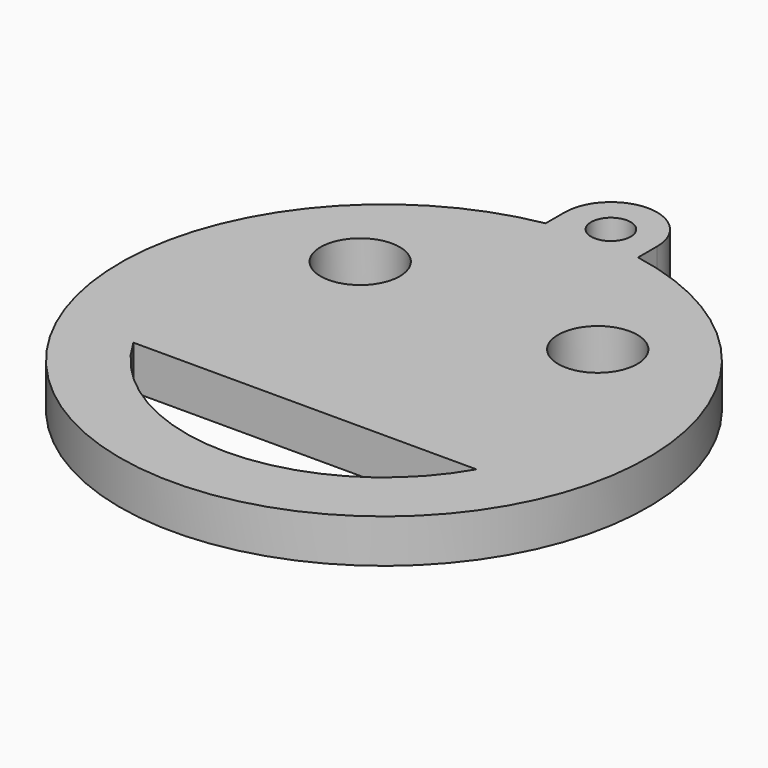
from build123d import *

# Parameters (mm, degrees)
EXTRUDE_DEPTH   = 3.3
SKETCH002_R     = 3
POCKET001_DEPTH = 5
SKETCH003_R     = 1.5
POCKET002_DEPTH = 5


with BuildPart() as part:
    # Sketch → Extrude (new body)
    with BuildSketch(Plane.XY):
        with BuildLine():
            ThreePointArc((3.5, 21.5), (0, 25), (-3.5, 21.5))
            Line((-3.5, 21.5), (-3.5, 19.691369))
            ThreePointArc((-3.5, 19.691369), (0, -20), (3.5, 19.691369))
            Line((3.5, 19.691369), (3.5, 21.5))
        make_face()
    extrude(amount=EXTRUDE_DEPTH)

    # Sketch002 → Pocket001 (cut)
    with BuildSketch(Plane.XY.offset(3.3)):
        with Locations((-9, 9)):
            Circle(SKETCH002_R)
        with Locations((9, 9)):
            Circle(SKETCH002_R)
        with BuildLine():
            Line((-13, -7.483315), (13, -7.483315))
            ThreePointArc((-13, -7.483315), (0, -15), (13, -7.483315))
        make_face()
    extrude(amount=-POCKET001_DEPTH, mode=Mode.SUBTRACT)

    # Sketch003 → Pocket002 (cut)
    with BuildSketch(Plane.XY.offset(3.3)):
        with Locations((0, 21.5)):
            Circle(SKETCH003_R)
    extrude(amount=-POCKET002_DEPTH, mode=Mode.SUBTRACT)


solid = part.part
